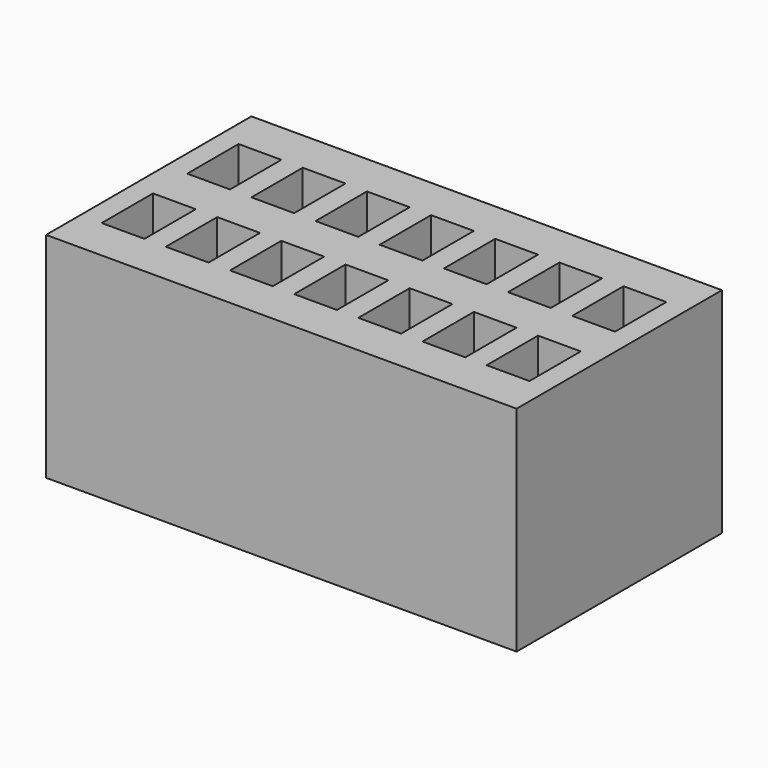
from build123d import *

# Parameters (mm, degrees)
F0_W     = 110
F0_H     = 60
F1_DEPTH = 50
F2_W     = 100
F2_H     = 50
F3_DEPTH = 25
F5_W     = 10
F5_H     = 15
F5_H_2   = 14.999788
F5_H_3   = 14.999776
F5_H_4   = 14.999488
F5_H_5   = 14.999479
F5_H_6   = 14.999535
F6_DEPTH = 15


with BuildPart() as f1:
    # F0 (on Top) → F1 (new body)
    with BuildSketch(Plane.XY):
        with Locations((1.447366, 11.055018)):
            Rectangle(F0_W, F0_H)
    extrude(amount=F1_DEPTH)

    # F2 (on face) → F3 (cut)
    with BuildSketch(Plane(origin=(0, 0, 0), x_dir=(1, 0, 0), z_dir=(0, 0, -1))):
        with Locations((1.447366, -11.055018)):
            Rectangle(F2_W, F2_H)
    extrude(amount=-F3_DEPTH, mode=Mode.SUBTRACT)

    # F5 (on face) → F6 (cut)
    with BuildSketch(Plane.XY.offset(50)):
        with Locations((-43.552634, 23.555018)):
            Rectangle(F5_W, F5_H)
        with Locations((-28.552634, 23.555124)):
            Rectangle(F5_W, F5_H_2)
        with Locations((-13.552634, 23.555018)):
            Rectangle(F5_W, F5_H)
        with Locations((1.447366, 23.55513)):
            Rectangle(F5_W, F5_H_3)
        with Locations((16.447366, 23.555274)):
            Rectangle(F5_W, F5_H_4)
        with Locations((31.447366, 23.555279)):
            Rectangle(F5_W, F5_H_5)
        with Locations((46.447366, 23.55525)):
            Rectangle(F5_W, F5_H_6)
        with Locations((-43.552634, -1.444982)):
            Rectangle(F5_W, F5_H)
        with Locations((-28.552634, -1.444982)):
            Rectangle(F5_W, F5_H)
        with Locations((-13.552634, -1.444982)):
            Rectangle(F5_W, F5_H)
        with Locations((1.447366, -1.444982)):
            Rectangle(F5_W, F5_H)
        with Locations((16.447366, -1.444982)):
            Rectangle(F5_W, F5_H)
        with Locations((31.447366, -1.444982)):
            Rectangle(F5_W, F5_H)
        with Locations((46.447366, -1.444982)):
            Rectangle(F5_W, F5_H)
    extrude(amount=-F6_DEPTH, mode=Mode.SUBTRACT)


solid = f1.part
